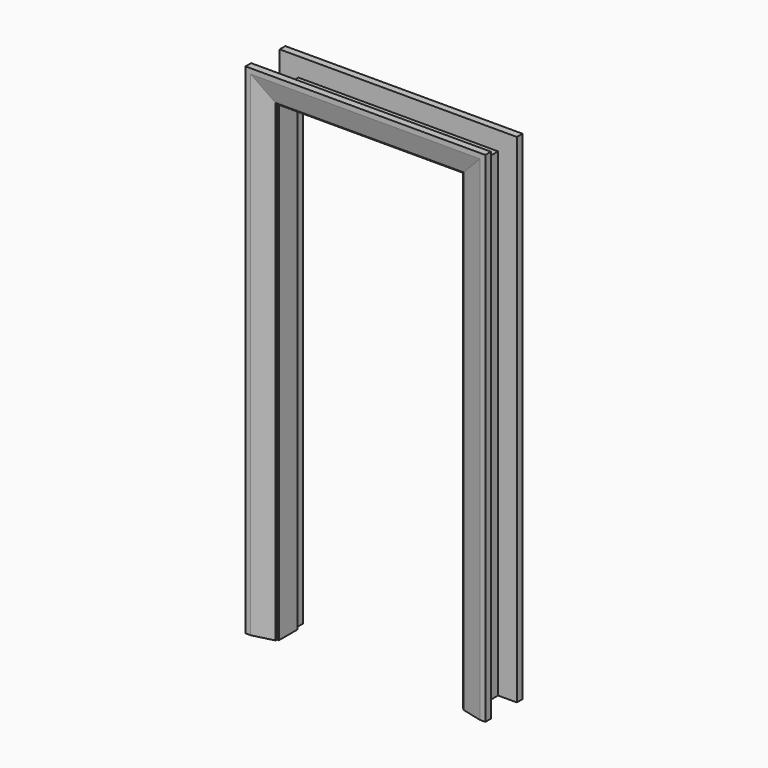
from build123d import *

# Parameters (mm, degrees)
F1_DEPTH = 100
F3_DEPTH = 45
F5_DEPTH = 30
F6_SIZE2 = 20
F6_SIZE  = 68
F8_DEPTH = 30
F9_SIZE2 = 22
F9_SIZE  = 88


with BuildPart() as f1:
    # F0 (on Front) → F1 (new body)
    with BuildSketch(Plane.XZ):
        Polygon((-22.5, 0), (0, 0), (0, 2007.5), (785, 2007.5), (785, 0), (807.5, 0), (807.5, 2030), (-22.5, 2030), align=None)
    extrude(amount=F1_DEPTH)

    # F2 (on face) → F3 (join)
    with BuildSketch(Plane(origin=(0, 0, 0), x_dir=(-1, 0, 0), z_dir=(0, 1, 0))):
        Polygon((12.5, 0), (22.5, 0), (32.5, 0), (32.5, 2040), (-817.5, 2040), (-817.5, 0), (-807.5, 0), (-797.5, 0), (-797.5, 2020), (12.5, 2020), align=None)
    extrude(amount=F3_DEPTH)

    # F4 (on face) → F5 (join)
    with BuildSketch(Plane(origin=(0, 45, 0), x_dir=(-1, 0, 0), z_dir=(0, 1, 0))):
        Polygon((-897.5, 0), (-817.5, 0), (-807.5, 0), (-807.5, 2035), (27.5, 2035), (27.5, 0), (32.5, 0), (112.5, 0), (112.5, 2120), (-897.5, 2120), align=None)
    extrude(amount=F5_DEPTH)

    # F6
    f6_edges = [f1.edges().sort_by_distance(p)[0] for p in [
        (390, 75, 2035),
        (-27.5, 75, 1017.5),
        (807.5, 75, 1017.5),
    ]]
    f6_side = f1.faces().sort_by_distance((852.5, 75, 23.482973))[0]
    chamfer(f6_edges, length=F6_SIZE, length2=F6_SIZE2, reference=f6_side)

    # F7 (on face) → F8 (join)
    with BuildSketch(Plane.XZ.offset(100)):
        Polygon((-118, 0), (-8, 0), (-8, 2015.5), (793, 2015.5), (793, 0), (903, 0), (903, 2125.5), (-118, 2125.5), align=None)
    extrude(amount=F8_DEPTH)

    # F9
    f9_edges = [f1.edges().sort_by_distance(p)[0] for p in [
        (793, -130, 1007.75),
        (392.5, -130, 2015.5),
        (-8, -130, 1007.75),
    ]]
    f9_side = f1.faces().sort_by_distance((-63, -130, 23.580058))[0]
    chamfer(f9_edges, length=F9_SIZE, length2=F9_SIZE2, reference=f9_side)


solid = f1.part
